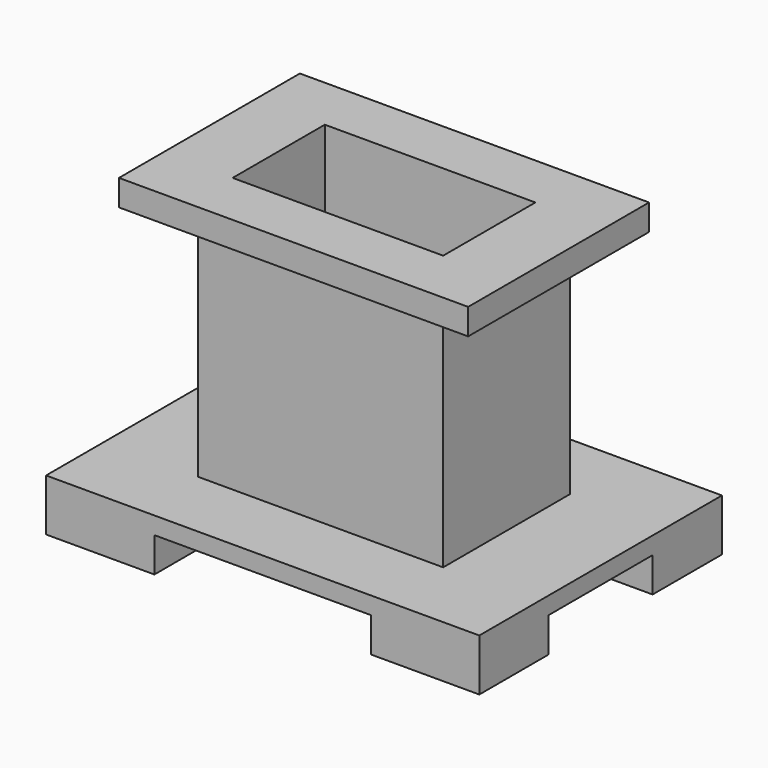
from build123d import *

# Parameters (mm, degrees)
F0_W      = 127
F0_H      = 88.9
F1_DEPTH  = 15.24
F2_W      = 63.5
F2_H      = 10.16
F3_DEPTH  = 88.9
F4_W      = 38.1
F4_H      = 10.16
F5_DEPTH  = 127
F6_W      = 71.8820020556
F6_H      = 46.4872904122
F7_DEPTH  = 76.2
F8_W      = 61.7219954729
F8_H      = 33.7767079473
F9_DEPTH  = 101.6
F10_W     = 102.3619994521
F10_H     = 66.2887096405
F10_W_2   = 71.8820020556
F10_H_2   = 46.4872904122
F11_DEPTH = 7.62


with BuildPart() as f1:
    # F0 (on Top) → F1 (new body)
    with BuildSketch(Plane.XY):
        Rectangle(F0_W, F0_H)
    extrude(amount=-F1_DEPTH)

    # F2 (on face) → F3 (cut)
    with BuildSketch(Plane.XZ.offset(44.45)):
        with Locations((0, -10.16)):
            Rectangle(F2_W, F2_H)
    extrude(amount=-F3_DEPTH, mode=Mode.SUBTRACT)

    # F4 (on face) → F5 (cut)
    with BuildSketch(Plane(origin=(-63.5, 0, 0), x_dir=(0, -1, 0), z_dir=(-1, 0, 0))):
        with Locations((0, -10.16)):
            Rectangle(F4_W, F4_H)
    extrude(amount=-F5_DEPTH, mode=Mode.SUBTRACT)

    # F6 (on face) → F7 (join)
    with BuildSketch(Plane.XY):
        Rectangle(F6_W, F6_H)
    extrude(amount=F7_DEPTH)

    # F8 (on face) → F9 (cut)
    with BuildSketch(Plane.XY.offset(76.2)):
        Rectangle(F8_W, F8_H)
    extrude(amount=-F9_DEPTH, mode=Mode.SUBTRACT)

    # F10 (on face) → F11 (join)
    with BuildSketch(Plane.XY.offset(76.2)):
        Rectangle(F10_W, F10_H)
        Rectangle(F10_W_2, F10_H_2, mode=Mode.SUBTRACT)
    extrude(amount=-F11_DEPTH)


solid = f1.part
